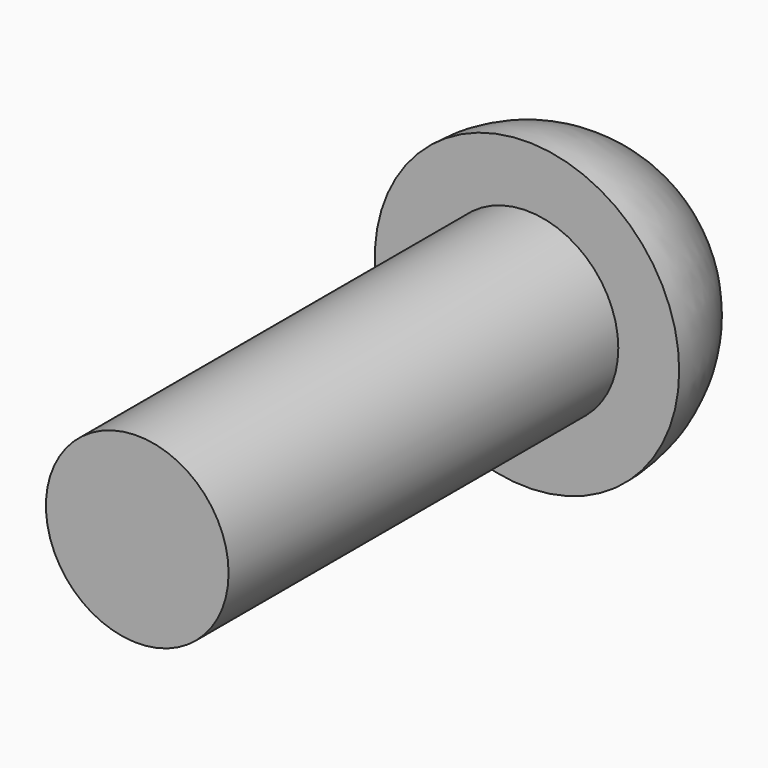
from build123d import *


with BuildPart() as part:
    # Sketch → Revolution (revolve)
    with BuildSketch(Plane.XY):
        with BuildLine():
            Line((0, 0), (1.5, 0))
            Line((1.5, 0), (1.5, 8))
            Line((1.5, 8), (2.5, 8))
            ThreePointArc((2.5, 8), (1.767767, 9.767767), (0, 10.5))
            Line((0, 10.5), (0, 0))
        make_face()
    revolve(axis=Axis((0, 0, 0), (0, 1, 0)))


solid = part.part
